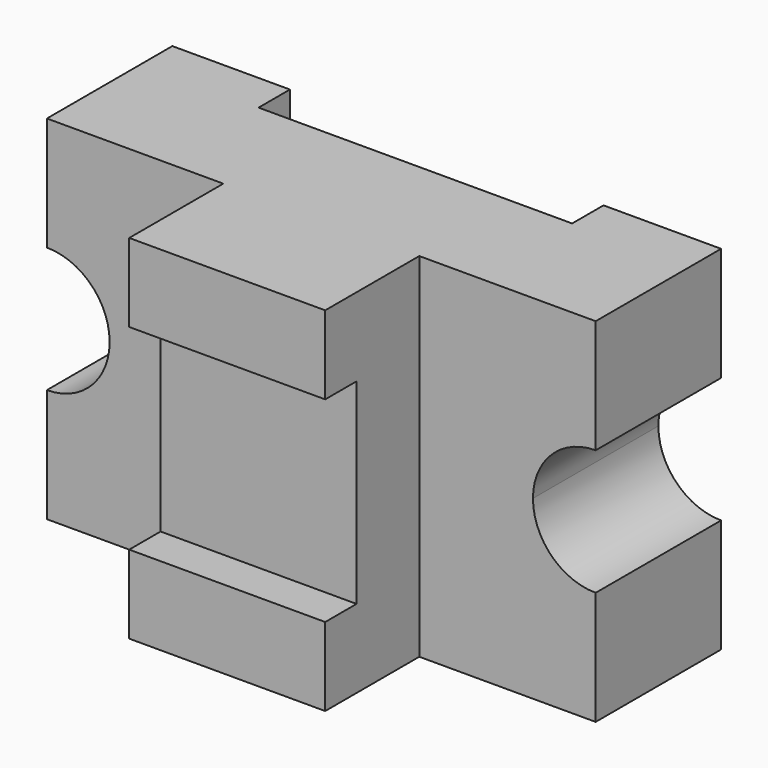
from build123d import *

# Parameters (mm, degrees)
F0_W     = 31.75
F0_H     = 57.15
F1_DEPTH = 50.8
F2_W     = 31.75
F2_H     = 25.4
F2_H_2   = 63.5
F3_DEPTH = 38.1
F4_W     = 63.5
F4_H     = 63.5
F5_DEPTH = 12.7
F7_DEPTH = 12.7


with BuildPart() as f1:
    # F0 (on Front) → F1 (new body)
    with BuildSketch(Plane.XZ):
        with BuildLine():
            Line((-13.088717841, 62.5215394646), (-70.238717841, 62.5215394646))
            Line((-70.238717841, 62.5215394646), (-70.238717841, 25.6915394646))
            ThreePointArc((-70.238717841, 25.6915394646), (-55.8703080473, 19.7399492583), (-49.918717841, 5.3715394646))
            Line((-49.918717841, 5.3715394646), (-13.088717841, 5.3715394646))
            Line((-13.088717841, 5.3715394646), (-13.088717841, 62.5215394646))
        make_face()
        with BuildLine():
            Line((-13.088717841, -51.7784605354), (-13.088717841, 5.3715394646))
            Line((-13.088717841, 5.3715394646), (-49.918717841, 5.3715394646))
            ThreePointArc((-49.918717841, 5.3715394646), (-55.8703080473, -8.9968703291), (-70.238717841, -14.9484605354))
            Line((-70.238717841, -14.9484605354), (-70.238717841, -51.7784605354))
            Line((-70.238717841, -51.7784605354), (-13.088717841, -51.7784605354))
        make_face()
        with BuildLine():
            Line((87.241282159, 5.3715394646), (50.411282159, 5.3715394646))
            Line((50.411282159, 5.3715394646), (50.411282159, -51.7784605354))
            Line((50.411282159, -51.7784605354), (107.561282159, -51.7784605354))
            Line((107.561282159, -51.7784605354), (107.561282159, -14.9484605354))
            ThreePointArc((107.561282159, -14.9484605354), (93.1928723653, -8.9968703291), (87.241282159, 5.3715394646))
        make_face()
        with BuildLine():
            Line((107.561282159, 62.5215394646), (50.411282159, 62.5215394646))
            Line((50.411282159, 62.5215394646), (50.411282159, 5.3715394646))
            Line((50.411282159, 5.3715394646), (87.241282159, 5.3715394646))
            ThreePointArc((87.241282159, 5.3715394646), (93.1928723653, 19.7399492583), (107.561282159, 25.6915394646))
            Line((107.561282159, 25.6915394646), (107.561282159, 62.5215394646))
        make_face()
        with Locations((2.786282159, 33.9465394646)):
            Rectangle(F0_W, F0_H)
        with Locations((2.786282159, -23.2034605354)):
            Rectangle(F0_W, F0_H)
        with Locations((34.536282159, -23.2034605354)):
            Rectangle(F0_W, F0_H)
        with Locations((34.536282159, 33.9465394646)):
            Rectangle(F0_W, F0_H)
    extrude(amount=-F1_DEPTH)

    # F2 (on face) → F3 (join)
    with BuildSketch(Plane.XZ):
        with Locations((34.536282159, 49.8215394646)):
            Rectangle(F2_W, F2_H)
        with Locations((2.786282159, 49.8215394646)):
            Rectangle(F2_W, F2_H)
        with Locations((2.786282159, -39.0784605354)):
            Rectangle(F2_W, F2_H)
        with Locations((34.536282159, -39.0784605354)):
            Rectangle(F2_W, F2_H)
        with Locations((34.536282159, 5.3715394646)):
            Rectangle(F2_W, F2_H_2)
        with Locations((2.786282159, 5.3715394646)):
            Rectangle(F2_W, F2_H_2)
    extrude(amount=F3_DEPTH)

    # F4 (on face) → F5 (cut)
    with BuildSketch(Plane.XZ.offset(38.1)):
        with Locations((18.661282159, 5.3715394646)):
            Rectangle(F4_W, F4_H)
    extrude(amount=-F5_DEPTH, mode=Mode.SUBTRACT)

    # F6 (on face) → F7 (cut)
    with BuildSketch(Plane(origin=(0, 50.8, 0), x_dir=(-1, 0, 0), z_dir=(0, 1, 0))):
        Polygon((32.138717841, 62.5215394646), (-18.661282159, 62.5215394646), (-69.461282159, 62.5215394646), (-69.461282159, -51.7784605354), (-54.4542595744, -51.7784605354), (-51.7406947911, -51.7784605354), (32.138717841, -51.7784605354), align=None)
    extrude(amount=-F7_DEPTH, mode=Mode.SUBTRACT)


solid = f1.part
